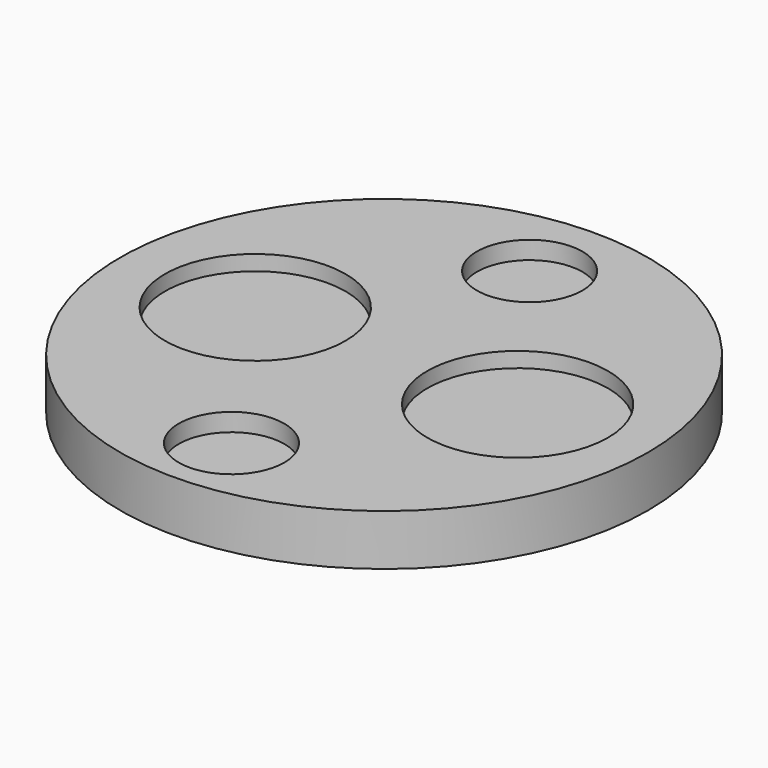
from build123d import *

# Parameters (mm, degrees)
F0_R     = 10.1
F1_DEPTH = 4
F0_R_2   = 29.5
F2_DEPTH = 5.7
F3_R     = 5.9
F4_DEPTH = 2
F5_W     = 15.384078
F5_H     = 14.1
F6_DEPTH = 2


with BuildPart() as f1:
    # F0 (on Top) → F1 (new body)
    with BuildSketch(Plane.XY):
        with Locations((-14.399773, 0)):
            Circle(F0_R)
        with Locations((14.924431, 0)):
            Circle(F0_R)
    extrude(amount=F1_DEPTH)


with BuildPart() as f2:
    # F0 (on Top) → F2 (new body)
    with BuildSketch(Plane.XY):
        Circle(F0_R_2)
        with Locations((-14.399773, 0)):
            Circle(F0_R, mode=Mode.SUBTRACT)
        with Locations((14.924431, 0)):
            Circle(F0_R, mode=Mode.SUBTRACT)
    extrude(amount=F2_DEPTH)

    # F3 (on face) → F4 (cut)
    with BuildSketch(Plane.XY.offset(5.7)):
        with Locations((0, 20.330605)):
            Circle(F3_R)
        with Locations((0, -21.320417)):
            Circle(F3_R)
    extrude(amount=-F4_DEPTH, mode=Mode.SUBTRACT)


with BuildPart() as f6_tool:
    # F5 (on face) → F6 (new body)
    with BuildSketch(Plane(origin=(0, 0, 0), x_dir=(1, 0, 0), z_dir=(0, 0, -1))):
        Rectangle(F5_W, F5_H)
    extrude(amount=-F6_DEPTH)


with BuildPart() as f1_1:
    add(f1.part)

    # F6: cut by f6_tool
    add(f6_tool.part, mode=Mode.SUBTRACT)


with BuildPart() as f2_1:
    add(f2.part)

    # F6: cut by f6_tool
    add(f6_tool.part, mode=Mode.SUBTRACT)


solid = Compound([f1_1.part, f2_1.part])
